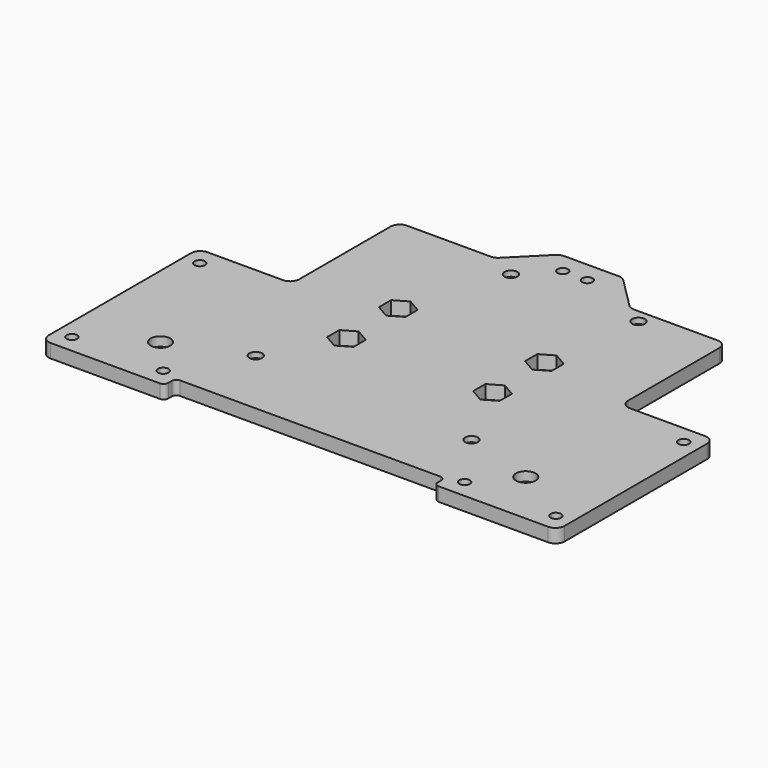
from build123d import *

# Parameters (mm, degrees)
PAD001_DEPTH         = 3
SKETCH012_R          = 1.4
POCKET005_DEPTH      = 3.001
SKETCH014_R          = 2.5
POCKET006_DEPTH      = 1.8
POCKET008_DEPTH      = 0.001
POCKET008_DEPTH_BACK = 3.001
SKETCH017_R          = 1.15
POCKET009_DEPTH      = 0.001
POCKET009_DEPTH_BACK = 3.001
POCKET010_DEPTH      = 1.8
SKETCH023_R          = 1.15
POCKET013_DEPTH      = 0.001
POCKET013_DEPTH_BACK = 3.001
SKETCH026_R          = 2.15
POCKET016_DEPTH      = 2.001


with BuildPart() as part:
    # Sketch009 → Pad001 (new body)
    with BuildSketch(Plane.XY):
        with BuildLine():
            Line((56.5, 38), (56.5, -1))
            ThreePointArc((54.5, -3), (55.914214, -2.414214), (56.5, -1))
            Line((54.5, -3), (30.5, -3))
            ThreePointArc((29.5, -2), (29.792893, -2.707107), (30.5, -3))
            Line((29.5, -2), (29.5, -1))
            ThreePointArc((29.5, -1), (29.207107, -0.292893), (28.5, 0))
            Line((28.5, 0), (-28.5, 0))
            ThreePointArc((-28.5, 0), (-29.207107, -0.292893), (-29.5, -1))
            Line((-29.5, -1), (-29.5, -2))
            ThreePointArc((-30.5, -3), (-29.792893, -2.707107), (-29.5, -2))
            Line((-30.5, -3), (-54.5, -3))
            ThreePointArc((-56.5, -1), (-55.914214, -2.414214), (-54.5, -3))
            Line((-56.5, -1), (-56.5, 38))
            ThreePointArc((-54.500018, 40), (-55.91422, 39.414207), (-56.5, 38))
            Line((-54.500018, 40), (-38, 40))
            ThreePointArc((-38, 40), (-36.585786, 40.585786), (-36, 42))
            Line((-36, 67), (-36, 42))
            ThreePointArc((-34, 69), (-35.414214, 68.414214), (-36, 67))
            Line((-34, 69), (-15.656854, 69))
            ThreePointArc((-15.656854, 69), (-14.891487, 69.152241), (-14.242641, 69.585786))
            Line((-14.242641, 69.585786), (-7.414214, 76.414214))
            ThreePointArc((-6, 77), (-6.765367, 76.847759), (-7.414214, 76.414214))
            Line((-6, 77), (6, 77))
            ThreePointArc((7.414214, 76.414214), (6.765367, 76.847759), (6, 77))
            Line((7.414214, 76.414214), (14.242641, 69.585786))
            ThreePointArc((14.242641, 69.585786), (14.891487, 69.152241), (15.656854, 69))
            Line((15.656854, 69), (34, 69))
            ThreePointArc((36, 67), (35.414214, 68.414214), (34, 69))
            Line((36, 42), (36, 67))
            ThreePointArc((36, 42), (36.585786, 40.585786), (38, 40))
            Line((38, 40), (54.500018, 40))
            ThreePointArc((56.5, 38), (55.91422, 39.414207), (54.500018, 40))
        make_face()
    extrude(amount=PAD001_DEPTH)

    # Sketch012 → Pocket005 (cut, through all)
    with BuildSketch(Plane.XY):
        with Locations((-8.89, 66.04)):
            Circle(SKETCH012_R)
        with Locations((19.05, 66.04)):
            Circle(SKETCH012_R)
        with Locations((24.13, 13.97)):
            Circle(SKETCH012_R)
        with Locations((-24.13, 15.24)):
            Circle(SKETCH012_R)
    extrude(amount=POCKET005_DEPTH, mode=Mode.SUBTRACT)

    # Sketch014 → Pocket006 (cut)
    with BuildSketch(Plane.XY):
        with Locations((-24.13, 15.24)):
            Circle(SKETCH014_R)
        with Locations((24.13, 13.97)):
            Circle(SKETCH014_R)
        with BuildLine():
            ThreePointArc((-11.39, 66.04), (-8.89, 63.54), (-6.39, 66.04))
            Line((-6.39, 66.04), (-6.39, 86.04))
            ThreePointArc((-6.39, 86.04), (-8.89, 88.54), (-11.39, 86.04))
            Line((-11.39, 66.04), (-11.39, 86.04))
        make_face()
        with BuildLine():
            ThreePointArc((16.55, 66.04), (19.05, 63.54), (21.55, 66.04))
            Line((21.55, 66.04), (21.55, 86.04))
            ThreePointArc((21.55, 86.04), (19.05, 88.54), (16.55, 86.04))
            Line((16.55, 66.04), (16.55, 86.04))
        make_face()
    extrude(amount=POCKET006_DEPTH, mode=Mode.SUBTRACT)

    # Sketch015 → Pocket008 (cut, two sides)
    with BuildSketch(Plane.XY) as pocket008_sk:
        Polygon((-18.9, 45.774316), (-18.9, 42.425684), (-16, 40.751368), (-13.1, 42.425684), (-13.1, 45.774316), (-16, 47.448632), align=None)
        Polygon((13.1, 45.774316), (13.1, 42.425684), (16, 40.751368), (18.9, 42.425684), (18.9, 45.774316), (16, 47.448632), align=None)
        Polygon((-18.9, 31.574316), (-18.9, 28.225684), (-16, 26.551368), (-13.1, 28.225684), (-13.1, 31.574316), (-16, 33.248632), align=None)
        Polygon((13.1, 31.574316), (13.1, 28.225684), (16, 26.551368), (18.9, 28.225684), (18.9, 31.574316), (16, 33.248632), align=None)
    extrude(amount=-POCKET008_DEPTH, mode=Mode.SUBTRACT)
    extrude(pocket008_sk.sketch, amount=POCKET008_DEPTH_BACK, mode=Mode.SUBTRACT)

    # Sketch017 → Pocket009 (cut, two sides)
    with BuildSketch(Plane.XY) as pocket009_sk:
        with Locations((-53, 36)):
            Circle(SKETCH017_R)
        with Locations((-33, 1)):
            Circle(SKETCH017_R)
        with Locations((-53, 1)):
            Circle(SKETCH017_R)
        with Locations((53, 36)):
            Circle(SKETCH017_R)
        with Locations((53, 1)):
            Circle(SKETCH017_R)
        with Locations((33, 1)):
            Circle(SKETCH017_R)
    extrude(amount=-POCKET009_DEPTH, mode=Mode.SUBTRACT)
    extrude(pocket009_sk.sketch, amount=POCKET009_DEPTH_BACK, mode=Mode.SUBTRACT)

    # Sketch018 → Pocket010 (cut)
    with BuildSketch(Plane.XY):
        Polygon((53, 33.575129), (55.1, 34.787564), (55.1, 37.212436), (53, 38.424871), (50.9, 37.212436), (50.9, 34.787564), align=None)
        Polygon((53, 3.424871), (50.9, 2.212436), (50.9, -0.212436), (53, -1.424871), (55.1, -0.212436), (55.1, 2.212436), align=None)
        Polygon((33, 3.424871), (30.9, 2.212436), (30.9, -0.212436), (33, -1.424871), (35.1, -0.212436), (35.1, 2.212436), align=None)
        Polygon((-33, 3.424871), (-35.1, 2.212436), (-35.1, -0.212436), (-33, -1.424871), (-30.9, -0.212436), (-30.9, 2.212436), align=None)
        Polygon((-53, 3.424871), (-55.1, 2.212436), (-55.1, -0.212436), (-53, -1.424871), (-50.9, -0.212436), (-50.9, 2.212436), align=None)
        Polygon((-53, 33.575129), (-50.9, 34.787564), (-50.9, 37.212436), (-53, 38.424871), (-55.1, 37.212436), (-55.1, 34.787564), align=None)
    extrude(amount=POCKET010_DEPTH, mode=Mode.SUBTRACT)

    # Sketch023 → Pocket013 (cut, two sides)
    with BuildSketch(Plane.XY) as pocket013_sk:
        with Locations((-40, 9)):
            Circle(SKETCH023_R)
        with Locations((40, 9)):
            Circle(SKETCH023_R)
        with Locations((2.7, 72.5)):
            Circle(SKETCH023_R)
        with Locations((-2.7, 72.5)):
            Circle(SKETCH023_R)
    extrude(amount=-POCKET013_DEPTH, mode=Mode.SUBTRACT)
    extrude(pocket013_sk.sketch, amount=POCKET013_DEPTH_BACK, mode=Mode.SUBTRACT)

    # Sketch026 (on DatumPlane) → Pocket016 (cut, through all)
    with BuildSketch(Plane.XY.offset(1)):
        with Locations((-40, 9)):
            Circle(SKETCH026_R)
        with Locations((40, 9)):
            Circle(SKETCH026_R)
    extrude(amount=POCKET016_DEPTH, mode=Mode.SUBTRACT)


with BuildPart() as part_1:
    # Body001 placement: moved
    add(part.part.moved(Location((0, -4, 16))))


solid = part_1.part
